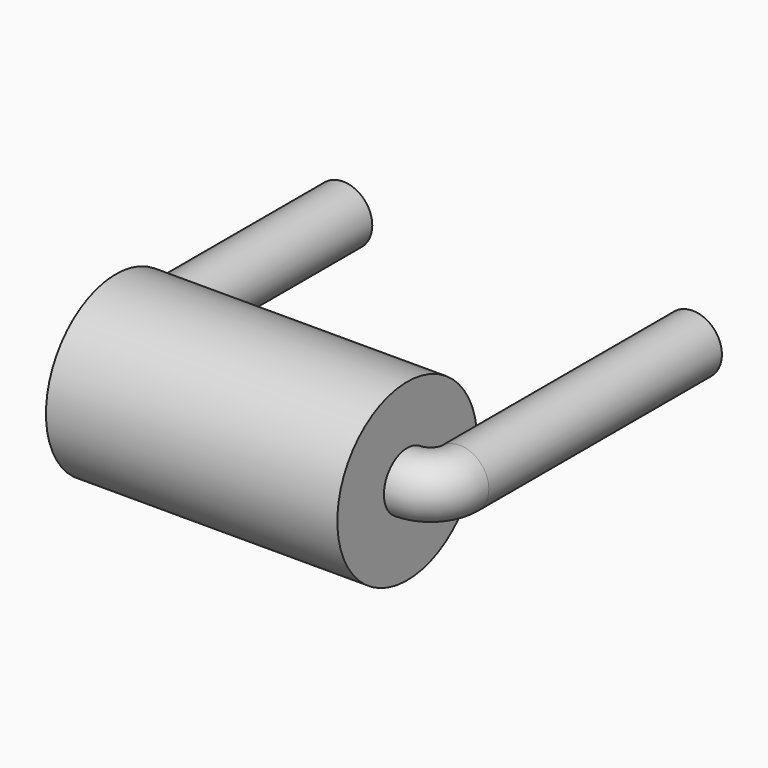
from build123d import *

# Parameters (mm, degrees)
F0_R      = 2.5
F1_DEPTH  = 25
F3_W      = 25
F3_H      = 2.5
F1_FACE_R = 2.5
F9_R      = 7.5
F9_R_2    = 2.5
F10_DEPTH = 25


with BuildPart() as f1:
    # F0 (on Front) → F1 (new body)
    with BuildSketch(Plane.XZ):
        Circle(F0_R)
    extrude(amount=F1_DEPTH)


with BuildPart() as f1b:
    # F0 (on Front) → F1, piece 2 (new body)
    with BuildSketch(Plane.XZ):
        with BuildLine():
            ThreePointArc((27.5, 0), (30, -2.5), (32.5, 0))
            ThreePointArc((32.5, 0), (30, 2.5), (27.5, 0))
        make_face()
    extrude(amount=F1_DEPTH)


with BuildPart() as f4:
    # F3 (on offset) → F4 (revolve)
    with BuildSketch(Plane.XZ.offset(27.5)):
        with Locations((15, 1.25)):
            Rectangle(F3_W, F3_H)
    revolve(axis=Axis((15, -27.5, 0), (-1, 0, 0)))


with BuildPart() as f6:
    # F6: sweep along a path in F5
    with BuildLine(Plane.XY) as f6_path:
        ThreePointArc((0, -25), (0.732233047, -26.767766953), (2.5, -27.5))
    # F1_face (on face) → F6 (sweep)
    with BuildSketch(Plane.XZ.offset(25)):
        Circle(F1_FACE_R)
    sweep(path=f6_path.line)


with BuildPart() as f10:
    # F9 (on offset) → F10 (new body)
    with BuildSketch(Plane.YZ.offset(2.5)):
        with Locations((-27.5, 0)):
            Circle(F9_R)
        with Locations((-27.5, 0)):
            Circle(F9_R_2, mode=Mode.SUBTRACT)
    extrude(amount=F10_DEPTH)


with BuildPart() as f11:
    # F11: sweep along a path in F7
    with BuildLine(Plane.XY) as f11_path:
        ThreePointArc((27.5, -27.5), (29.267766953, -26.767766953), (30, -25))
    # F1_face (on face) → F11 (sweep)
    with BuildSketch(Plane.XZ.offset(25)):
        with Locations((30, 0)):
            Circle(F1_FACE_R)
    sweep(path=f11_path.line)


solid = Compound([f1.part, f1b.part, f4.part, f6.part, f10.part, f11.part])
